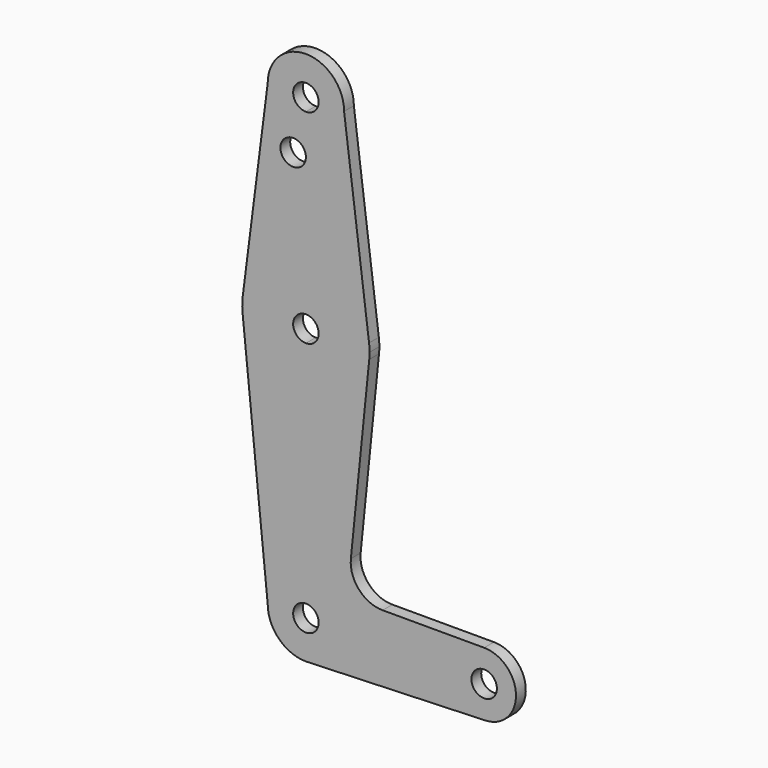
from build123d import *

# Parameters (mm, degrees)
F0_R     = 3.175
F1_DEPTH = 3.048


with BuildPart() as f1:
    # F0 (on Front) → F1 (new body)
    with BuildSketch(Plane.XZ):
        with BuildLine():
            ThreePointArc((-9.525, 114.3), (-6.7351920908, 107.5648079092), (0, 104.775))
            ThreePointArc((0, 104.775), (6.7351920908, 107.5648079092), (9.525, 114.3))
            ThreePointArc((9.525, 114.3), (0, 123.825), (-9.525, 114.3))
        make_face()
        with BuildLine():
            ThreePointArc((3.175, 114.3), (2.2450640303, 112.0549359697), (0, 111.125))
            ThreePointArc((0, 111.125), (-2.2450640303, 116.5450640303), (3.175, 114.3))
        make_face(mode=Mode.SUBTRACT)
        with BuildLine():
            ThreePointArc((9.525, 114.3), (6.7351920908, 107.5648079092), (0, 104.775))
            Line((0, 104.775), (0, 101.1682))
            Line((0, 101.1682), (0, 79.375))
            ThreePointArc((0, 79.375), (10.4912828548, 75.4142187767), (15.7474569047, 65.5082893304))
            Line((15.7474569047, 65.5082893304), (9.525, 114.3))
        make_face()
        with BuildLine():
            Line((0, 101.1682), (0, 104.775))
            ThreePointArc((0, 104.775), (-6.7351920908, 107.5648079092), (-9.525, 114.3))
            Line((-9.525, 114.3), (-15.7474569047, 65.5082893304))
            ThreePointArc((-15.7474569047, 65.5082893304), (-10.4912828548, 75.4142187767), (0, 79.375))
            Line((0, 79.375), (0, 101.1682))
        make_face()
        with Locations((-3.175, 101.1682)):
            Circle(F0_R, mode=Mode.SUBTRACT)
        with BuildLine():
            ThreePointArc((15.7474569047, 65.5082893304), (10.4912828548, 75.4142187767), (0, 79.375))
            Line((0, 79.375), (0, 66.675))
            ThreePointArc((0, 66.675), (2.2450640303, 65.7450640303), (3.175, 63.5))
            ThreePointArc((3.175, 63.5), (2.2450640303, 61.2549359697), (0, 60.325))
            Line((0, 60.325), (0, 47.625))
            ThreePointArc((0, 47.625), (10.644756084, 51.722700101), (15.7942028036, 61.9003804205))
            ThreePointArc((15.7942028036, 61.9003804205), (15.8547878338, 62.6991705884), (15.875, 63.5))
            ThreePointArc((15.875, 63.5), (15.8430821396, 64.5061676396), (15.7474569047, 65.5082893304))
        make_face()
        with BuildLine():
            Line((0, 66.675), (0, 79.375))
            ThreePointArc((0, 79.375), (-10.4912828548, 75.4142187767), (-15.7474569047, 65.5082893304))
            ThreePointArc((-15.7474569047, 65.5082893304), (-15.873667691, 63.7056672947), (-15.7942028036, 61.9003804205))
            ThreePointArc((-15.7942028036, 61.9003804205), (-10.644756084, 51.722700101), (0, 47.625))
            Line((0, 47.625), (0, 60.325))
            ThreePointArc((0, 60.325), (-3.175, 63.5), (0, 66.675))
        make_face()
        with BuildLine():
            ThreePointArc((0, 47.625), (-10.644756084, 51.722700101), (-15.7942028036, 61.9003804205))
            Line((-15.7942028036, 61.9003804205), (-9.525, 0))
            ThreePointArc((-9.525, 0), (-6.7351920908, 6.7351920908), (0, 9.525))
            Line((0, 9.525), (0, 47.625))
        make_face()
        with BuildLine():
            ThreePointArc((15.7942028036, 61.9003804205), (10.644756084, 51.722700101), (0, 47.625))
            Line((0, 47.625), (0, 9.525))
            ThreePointArc((0, 9.525), (6.7351920908, 6.7351920908), (9.525, 0))
            Line((9.525, 0), (36.5125, 0))
            ThreePointArc((36.5125, 0), (38.8373399243, 5.6126600757), (44.45, 7.9375))
            Line((44.45, 7.9375), (19.1249591039, 7.9375))
            ThreePointArc((19.1249591039, 7.9375), (13.2268873144, 10.5568061531), (11.2152223398, 16.6887894854))
            Line((11.2152223398, 16.6887894854), (15.7942028036, 61.9003804205))
        make_face()
        with BuildLine():
            ThreePointArc((0, 9.525), (-6.7351920908, 6.7351920908), (-9.525, 0))
            ThreePointArc((-9.525, 0), (-6.7351920908, -6.7351920908), (0, -9.525))
            Line((0, -9.525), (0.6773435479, -9.500885786))
            ThreePointArc((0.6773435479, -9.500885786), (6.9705567315, -6.4912990883), (9.525, 0))
            Line((9.525, 0), (3.175, 0))
            ThreePointArc((3.175, 0), (-2.2450640303, -2.2450640303), (0, 3.175))
            Line((0, 3.175), (0, 9.525))
        make_face()
        with BuildLine():
            Line((0.6773435479, -9.500885786), (0, -9.525))
            ThreePointArc((0, -9.525), (0.3388863295, -9.5189695375), (0.6773435479, -9.500885786))
        make_face()
        with BuildLine():
            Line((36.5125, 0), (9.525, 0))
            ThreePointArc((9.525, 0), (6.9705567315, -6.4912990883), (0.6773435479, -9.500885786))
            Line((0.6773435479, -9.500885786), (44.7324052746, -7.9324746146))
            ThreePointArc((44.7324052746, -7.9324746146), (38.9380895153, -5.7116327839), (36.5125, 0))
        make_face()
        with BuildLine():
            ThreePointArc((44.45, 7.9375), (38.8373399243, 5.6126600757), (36.5125, 0))
            ThreePointArc((36.5125, 0), (38.9380895153, -5.7116327839), (44.7324052746, -7.9324746146))
            ThreePointArc((44.7324052746, -7.9324746146), (50.1616327839, -5.5119104847), (52.3875, 0))
            ThreePointArc((52.3875, 0), (50.0626600757, 5.6126600757), (44.45, 7.9375))
        make_face()
        with BuildLine():
            ThreePointArc((47.625, 0), (44.45, -3.175), (41.275, 0))
            ThreePointArc((41.275, 0), (44.45, 3.175), (47.625, 0))
        make_face(mode=Mode.SUBTRACT)
        with BuildLine():
            ThreePointArc((9.525, 0), (6.7351920908, 6.7351920908), (0, 9.525))
            Line((0, 9.525), (0, 3.175))
            ThreePointArc((0, 3.175), (2.2450640303, 2.2450640303), (3.175, 0))
            Line((3.175, 0), (9.525, 0))
        make_face()
    extrude(amount=F1_DEPTH)


solid = f1.part
